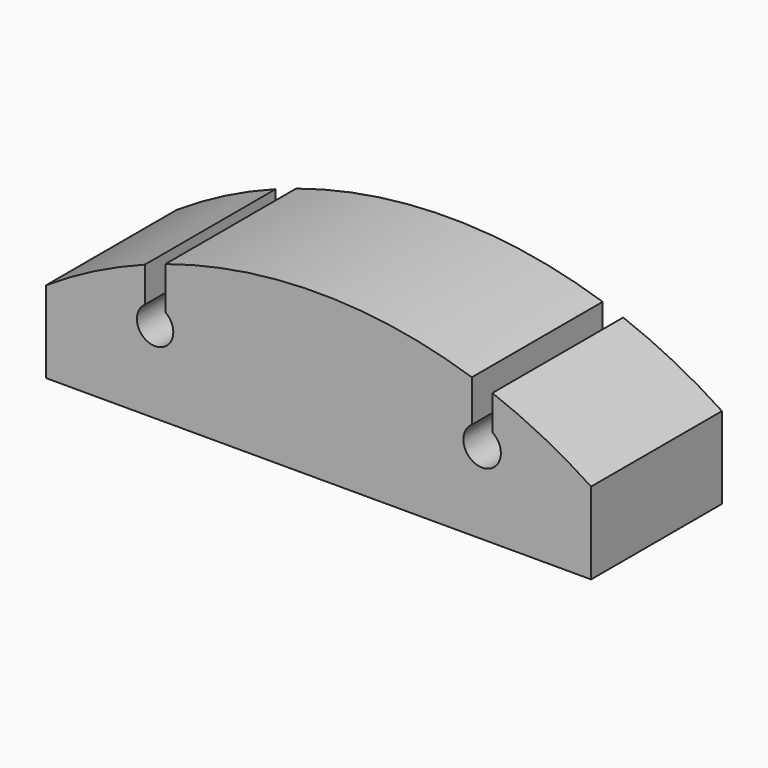
from build123d import *

# Parameters (mm, degrees)
F1_DEPTH = 38.1


with BuildPart() as f1:
    # F0 (on Front) → F1 (new body)
    with BuildSketch(Plane.XZ):
        with BuildLine():
            Line((-63.295935, 13.055353), (-63.295935, -5.994647))
            Line((-63.295935, -5.994647), (63.704065, -5.994647))
            Line((63.704065, -5.994647), (63.704065, 13.055353))
            ThreePointArc((63.704065, 13.055353), (52.526578, 19.557037), (40.691665, 24.766922))
            Line((40.691665, 24.766922), (40.691665, 16.714011))
            ThreePointArc((40.691665, 16.714011), (38.304065, 8.686553), (35.916465, 16.714011))
            Line((35.916465, 16.714011), (35.916465, 26.438266))
            ThreePointArc((35.916465, 26.438266), (0.204065, 32.105353), (-35.508335, 26.438266))
            Line((-35.508335, 26.438266), (-35.508335, 23.897591))
            Line((-35.508335, 23.897591), (-35.508335, 16.561381))
            ThreePointArc((-35.508335, 16.561381), (-37.895935, 8.813553), (-40.283535, 16.561381))
            Line((-40.283535, 16.561381), (-40.283535, 24.766922))
            ThreePointArc((-40.283535, 24.766922), (-52.118449, 19.557037), (-63.295935, 13.055353))
        make_face()
    extrude(amount=F1_DEPTH)


solid = f1.part
